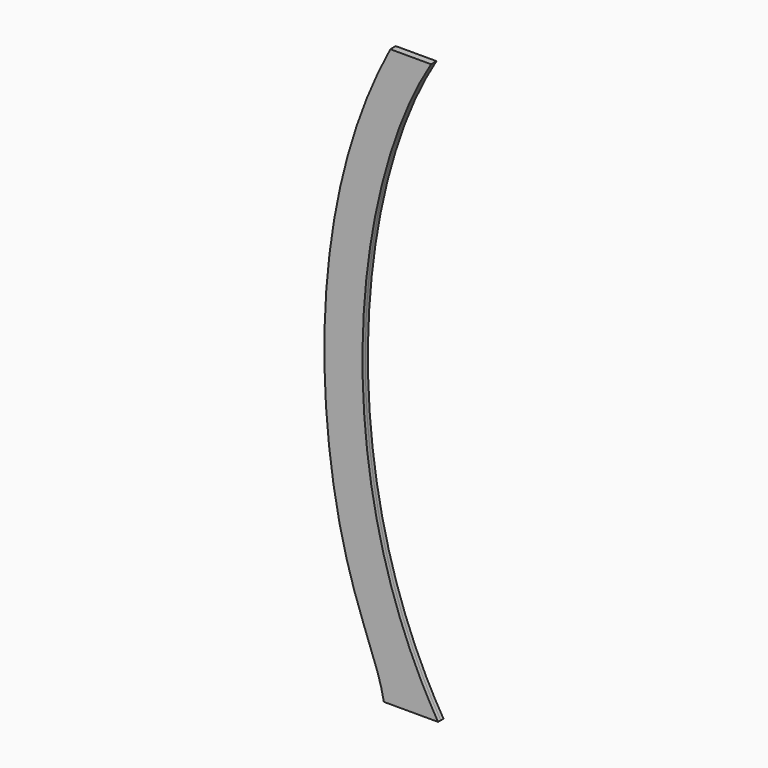
from build123d import *

# Parameters (mm, degrees)
F1_DEPTH = 12.7


with BuildPart() as f1:
    # F0 (on Front) → F1 (new body, symmetric)
    with BuildSketch(Plane.XZ):
        with BuildLine():
            add(Edge.make_bspline(
                [(-945.5808670162, 965.2), (-1242.0630128025, 484.7582280636), (-1340.5170440674, -494.4096505642), (-919.226, -1193.8)],
                knots=[0, 0, 0, 0, 2159.1608506583, 2159.1608506583, 2159.1608506583, 2159.1608506583], degree=3))
            Line((-945.5808670162, 965.2), (-1097.9808670162, 965.2))
            add(Edge.make_bspline(
                [(-1097.9808670162, 965.2), (-1417.2196388245, 366.0375773907), (-1348.5663086676, -720.7227352137), (-1140.6033039093, -1081.5900564194), (-1122.426, -1193.8)],
                knots=[0, 0, 0, 0, 0.6575295809, 1, 1, 1, 1], degree=3))
            Line((-1122.426, -1193.8), (-919.226, -1193.8))
        make_face()
    extrude(amount=F1_DEPTH, both=True)


solid = f1.part
